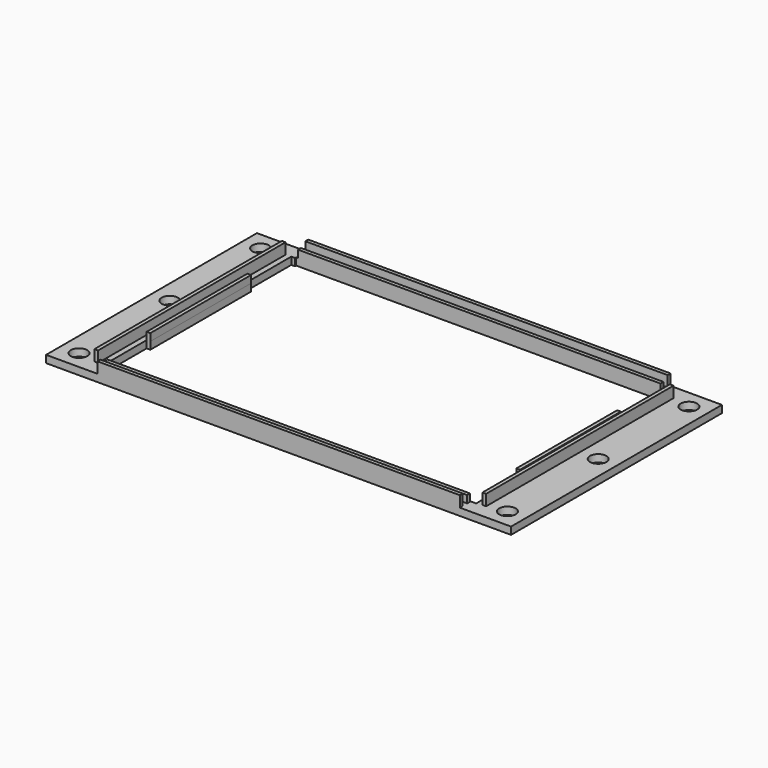
from build123d import *

# Parameters (mm, degrees)
SKETCH_W             = 107
SKETCH_H             = 72
PAD_DEPTH            = 2
SKETCH001_W          = 1
SKETCH001_H          = 64
PAD001_DEPTH         = 3
SKETCH002_W          = 1
SKETCH002_H          = 64
PAD002_DEPTH         = 2
SKETCH003_W          = 1
SKETCH003_H          = 64
PAD003_DEPTH         = 2
SKETCH004_W          = 1
SKETCH004_H          = 64
PAD004_DEPTH         = 3
SKETCH005_W          = 99
SKETCH005_H          = 1
PAD005_DEPTH         = 3
SKETCH006_W          = 99
SKETCH006_H          = 1
PAD006_DEPTH         = 2
SKETCH007_W          = 99
SKETCH007_H          = 1
PAD007_DEPTH         = 2
SKETCH008_W          = 99
SKETCH008_H          = 1
PAD008_DEPTH         = 3
SKETCH009_W          = 102
SKETCH009_H          = 15
POCKET_DEPTH         = 3.001
POCKET_DEPTH_BACK    = 2.001
SKETCH010_W          = 99.896225
SKETCH010_H          = 50
POCKET001_DEPTH      = 2.001
SKETCH011_W          = 10
SKETCH011_H          = 72
PAD009_DEPTH         = 2
SKETCH012_R          = 2.25
POCKET002_DEPTH      = 2.001
SKETCH014_W          = 10
SKETCH014_H          = 72
PAD010_DEPTH         = 2
SKETCH013_R          = 2.25
POCKET003_DEPTH      = 2.001
SKETCH015_W          = 102
SKETCH015_H          = 15
POCKET004_DEPTH      = 2
POCKET004_DEPTH_BACK = 2


with BuildPart() as part:
    # Sketch → Pad (new body)
    with BuildSketch(Plane.XY):
        with Locations((53.5, 36)):
            Rectangle(SKETCH_W, SKETCH_H)
    extrude(amount=-PAD_DEPTH)

    # Sketch001 → Pad001 (join)
    with BuildSketch(Plane.XY):
        with Locations((0.5, 36)):
            Rectangle(SKETCH001_W, SKETCH001_H)
    extrude(amount=PAD001_DEPTH)

    # Sketch002 → Pad002 (join)
    with BuildSketch(Plane.XY):
        with Locations((3, 36)):
            Rectangle(SKETCH002_W, SKETCH002_H)
    extrude(amount=PAD002_DEPTH)

    # Sketch003 → Pad003 (join)
    with BuildSketch(Plane.XY):
        with Locations((104, 36)):
            Rectangle(SKETCH003_W, SKETCH003_H)
    extrude(amount=PAD003_DEPTH)

    # Sketch004 → Pad004 (join)
    with BuildSketch(Plane.XY):
        with Locations((106.5, 36)):
            Rectangle(SKETCH004_W, SKETCH004_H)
    extrude(amount=PAD004_DEPTH)

    # Sketch005 → Pad005 (join)
    with BuildSketch(Plane.XY):
        with Locations((53.5, 71.5)):
            Rectangle(SKETCH005_W, SKETCH005_H)
    extrude(amount=PAD005_DEPTH)

    # Sketch006 → Pad006 (join)
    with BuildSketch(Plane.XY):
        with Locations((53.5, 69)):
            Rectangle(SKETCH006_W, SKETCH006_H)
    extrude(amount=PAD006_DEPTH)

    # Sketch007 → Pad007 (join)
    with BuildSketch(Plane.XY):
        with Locations((53.5, 3)):
            Rectangle(SKETCH007_W, SKETCH007_H)
    extrude(amount=PAD007_DEPTH)

    # Sketch008 → Pad008 (join)
    with BuildSketch(Plane.XY):
        with Locations((53.5, 0.5)):
            Rectangle(SKETCH008_W, SKETCH008_H)
    extrude(amount=PAD008_DEPTH)

    # Sketch009 → Pocket (cut, two sides)
    with BuildSketch(Plane.XY) as pocket_sk:
        with Locations((53.5, 11.2)):
            Rectangle(SKETCH009_W, SKETCH009_H)
    extrude(amount=POCKET_DEPTH, mode=Mode.SUBTRACT)
    extrude(pocket_sk.sketch, amount=-POCKET_DEPTH_BACK, mode=Mode.SUBTRACT)

    # Sketch010 → Pocket001 (cut, through all)
    with BuildSketch(Plane.XY):
        with Locations((53.448113, 43.5)):
            Rectangle(SKETCH010_W, SKETCH010_H)
    extrude(amount=-POCKET001_DEPTH, mode=Mode.SUBTRACT)

    # Sketch011 → Pad009 (join)
    with BuildSketch(Plane.XY):
        with Locations((-5, 36)):
            Rectangle(SKETCH011_W, SKETCH011_H)
    extrude(amount=-PAD009_DEPTH)

    # Sketch012 → Pocket002 (cut, through all)
    with BuildSketch(Plane.XY):
        with Locations((-5, 5)):
            Circle(SKETCH012_R)
        with Locations((-5, 36)):
            Circle(SKETCH012_R)
        with Locations((-5, 67)):
            Circle(SKETCH012_R)
    extrude(amount=-POCKET002_DEPTH, mode=Mode.SUBTRACT)

    # Sketch014 → Pad010 (join)
    with BuildSketch(Plane.XY):
        with Locations((112, 36)):
            Rectangle(SKETCH014_W, SKETCH014_H)
    extrude(amount=-PAD010_DEPTH)

    # Sketch013 → Pocket003 (cut, through all)
    with BuildSketch(Plane.XY):
        with Locations((112, 5)):
            Circle(SKETCH013_R)
        with Locations((112, 36)):
            Circle(SKETCH013_R)
        with Locations((112, 67)):
            Circle(SKETCH013_R)
    extrude(amount=-POCKET003_DEPTH, mode=Mode.SUBTRACT)

    # Sketch015 → Pocket004 (cut, two sides)
    with BuildSketch(Plane.XY) as pocket004_sk:
        with Locations((53.5, 60.6)):
            Rectangle(SKETCH015_W, SKETCH015_H)
    extrude(amount=POCKET004_DEPTH, mode=Mode.SUBTRACT)
    extrude(pocket004_sk.sketch, amount=-POCKET004_DEPTH_BACK, mode=Mode.SUBTRACT)


solid = part.part
